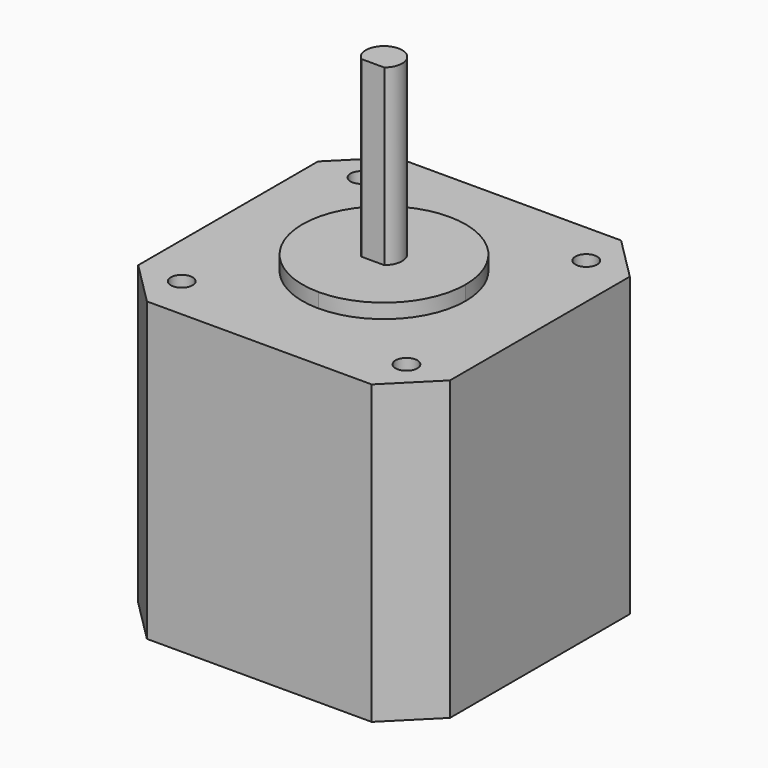
from build123d import *

# Parameters (mm, degrees)
F0_W     = 43.005985
F0_H     = 43.005985
F1_DEPTH = 40.981249
F3_DEPTH = 2
F4_R     = 1.499997
F5_DEPTH = 5
F7_DEPTH = 24
F8_SIZE  = 6.003011


with BuildPart() as f1:
    # F0 (on Top) → F1 (new body)
    with BuildSketch(Plane.XY):
        with Locations((21.502992, 21.502992)):
            Rectangle(F0_W, F0_H)
    extrude(amount=F1_DEPTH)

    # F2 (on face) → F3 (join)
    with BuildSketch(Plane.XY.offset(40.981249)):
        with BuildLine():
            ThreePointArc((21.502992, 32.755992), (10.249992, 21.502992), (21.502992, 10.249992))
            Line((21.502992, 10.249992), (21.502992, 32.755992))
        make_face()
        with BuildLine():
            Line((21.502992, 32.755992), (21.502992, 10.249992))
            ThreePointArc((21.502992, 10.249992), (29.460065, 13.54592), (32.755992, 21.502992))
            ThreePointArc((32.755992, 21.502992), (29.460065, 29.460065), (21.502992, 32.755992))
        make_face()
    extrude(amount=F3_DEPTH)

    # F4 (on face) → F5 (cut)
    with BuildSketch(Plane.XY.offset(40.981249)):
        with Locations((37.002987, 37.002987)):
            Circle(F4_R)
        with Locations((37.002987, 6.002998)):
            Circle(F4_R)
        with Locations((6.002998, 37.002987)):
            Circle(F4_R)
        with Locations((6.002998, 6.002998)):
            Circle(F4_R)
    extrude(amount=-F5_DEPTH, mode=Mode.SUBTRACT)

    # F6 (on face) → F7 (join)
    with BuildSketch(Plane.XY.offset(42.981249)):
        with BuildLine():
            Line((19.915492, 19.571712), (23.090492, 19.571712))
            ThreePointArc((23.090492, 19.571712), (21.502992, 24.002992), (19.915492, 19.571712))
        make_face()
    extrude(amount=F7_DEPTH)

    # F8
    f8_edges = [f1.edges().sort_by_distance(p)[0] for p in [
        (0, 0, 20.490624),
        (0, 43.005985, 20.490624),
        (43.005985, 0, 20.490624),
        (43.005985, 43.005985, 20.490624),
    ]]
    chamfer(f8_edges, length=F8_SIZE)


solid = f1.part
